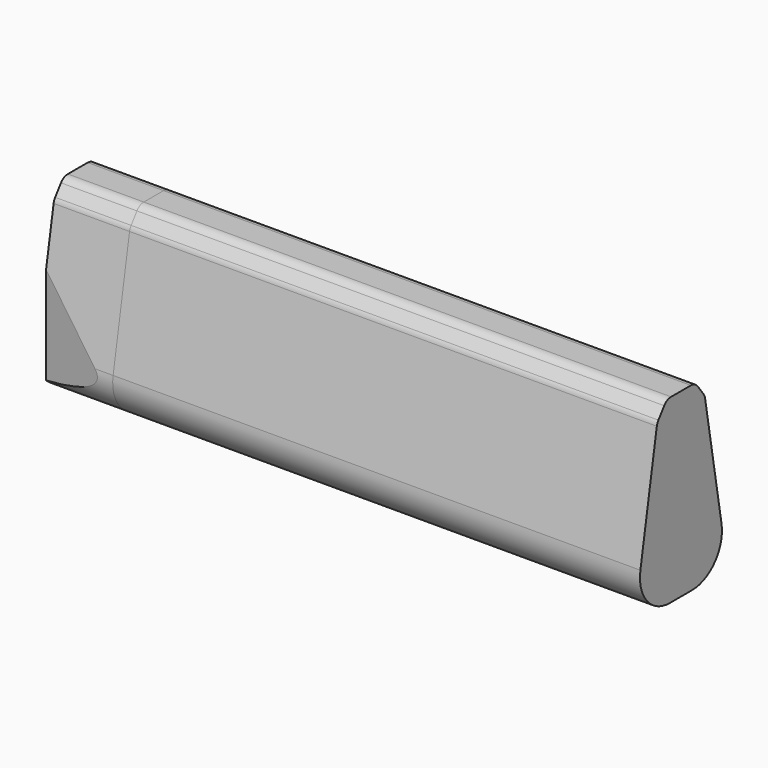
from build123d import *

# Parameters (mm, degrees)
F3_DEPTH = 49.3
F5_DEPTH = 7.1
F8_DEPTH = 32.13


with BuildPart() as f3:
    # F2 (on face) → F3 (new body)
    with BuildSketch(Plane(origin=(-77.645592, 0, 0), x_dir=(0, -1, 0), z_dir=(-1, 0, 0))):
        with BuildLine():
            Line((1.155786, 28.332565), (0, 28.332565))
            Line((0, 28.332565), (0, 11.419919))
            Line((0, 11.419919), (1.291432, 11.419919))
            ThreePointArc((1.291432, 11.419919), (3.969264, 12.666208), (4.740038, 15.517511))
            Line((4.740038, 15.517511), (2.821152, 26.591083))
            ThreePointArc((2.821152, 26.591083), (2.754507, 26.815366), (2.637569, 27.018024))
            Line((2.637569, 27.018024), (1.957519, 27.930247))
            ThreePointArc((1.957519, 27.930247), (1.604294, 28.226344), (1.155786, 28.332565))
        make_face()
    extrude(amount=-F3_DEPTH)

    # F4: F3 across face


with BuildPart() as f3_1:
    add(f3.part)
    add(f3.part.mirror(Plane(origin=(-52.995592, 0, 19.876242), x_dir=(-1, 0, 0), z_dir=(0, 1, 0))))


with BuildPart() as f5:
    # F4_face (on face) → F5 (new body)
    with BuildSketch(Plane(origin=(-77.645592, 0, 19.141261), x_dir=(0, -1, 0), z_dir=(-1, 0, 0))):
        with BuildLine():
            ThreePointArc((1.957519, 8.788986), (1.604294, 9.085083), (1.155786, 9.191304))
            Line((1.155786, 9.191304), (-1.155786, 9.191304))
            ThreePointArc((-1.155786, 9.191304), (-1.604294, 9.085083), (-1.957519, 8.788986))
            Line((-1.957519, 8.788986), (-2.637569, 7.876763))
            ThreePointArc((-2.637569, 7.876763), (-2.754507, 7.674105), (-2.821152, 7.449822))
            Line((-2.821152, 7.449822), (-4.740038, -3.62375))
            ThreePointArc((-4.740038, -3.62375), (-3.969264, -6.475053), (-1.291432, -7.721342))
            Line((-1.291432, -7.721342), (1.291432, -7.721342))
            ThreePointArc((1.291432, -7.721342), (3.969264, -6.475053), (4.740038, -3.62375))
            Line((4.740038, -3.62375), (2.821152, 7.449822))
            ThreePointArc((2.821152, 7.449822), (2.754507, 7.674105), (2.637569, 7.876763))
            Line((2.637569, 7.876763), (1.957519, 8.788986))
        make_face()
    extrude(amount=F5_DEPTH)

    # F7 (on offset) → F8 (cut)
    with BuildSketch(Plane.XY.offset(39.6)):
        Polygon((-77.953771, -5.006557), (-85.29786, -3.595204), (-88.283174, -6.052011), (-83.669513, -8.151725), (-78.498788, -8.394549), align=None)
    extrude(amount=-F8_DEPTH, mode=Mode.SUBTRACT)


solid = Compound([f3_1.part, f5.part])
